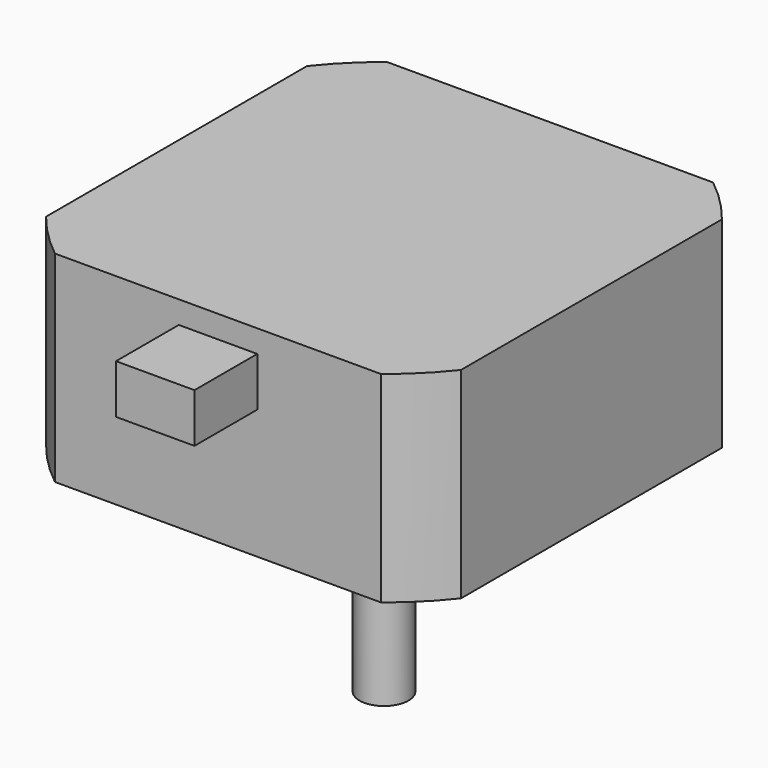
from build123d import *

# Parameters (mm, degrees)
SKETCH013_W             = 5
SKETCH013_H             = 1
POCKET003_DEPTH         = 16.5
SKETCH014_R             = 55
SKETCH014_W             = 42.3
SKETCH014_H             = 42.3
POCKET004_DEPTH         = 0.001
POCKET004_DEPTH_BACK    = 42.501
SKETCH015_R             = 1.75
POCKET005_DEPTH         = 5
SKETCH004_W             = 8
SKETCH004_H             = 8
PAD003_DEPTH            = 5
BODY004_PLACEMENT_ANGLE = 180


with BuildPart() as part:
    # Sketch012 → Revolution003 (revolve)
    with BuildSketch(Plane.XZ):
        Polygon((0, 0), (26.9, 0), (26.9, 20.5), (10.9875, 20.5), (10.9875, 22.5), (2.497, 22.5), (2.497, 42.5), (0, 42.5), align=None)
    revolve(axis=Axis((0, 0, 0), (0, 0, 1)))

    # Sketch013 → Pocket003 (cut)
    with BuildSketch(Plane.XY.offset(42.5)):
        with Locations((0, 2.6)):
            Rectangle(SKETCH013_W, SKETCH013_H)
    extrude(amount=-POCKET003_DEPTH, mode=Mode.SUBTRACT)

    # Sketch014 → Pocket004 (cut, two sides)
    with BuildSketch(Plane.XY) as pocket004_sk:
        Circle(SKETCH014_R)
        Rectangle(SKETCH014_W, SKETCH014_H, mode=Mode.SUBTRACT)
    extrude(amount=-POCKET004_DEPTH, mode=Mode.SUBTRACT)
    extrude(pocket004_sk.sketch, amount=POCKET004_DEPTH_BACK, mode=Mode.SUBTRACT)

    # Sketch015 (on Face10 of Pocket004) → Pocket005 (cut)
    with BuildSketch(Plane(origin=(0, 0, 20.5), x_dir=(-1, 0, 0), z_dir=(0, 0, 1))):
        with Locations((-15.5, 15.5)):
            Circle(SKETCH015_R)
        with Locations((15.5, 15.5)):
            Circle(SKETCH015_R)
        with Locations((15.5, -15.5)):
            Circle(SKETCH015_R)
        with Locations((-15.5, -15.5)):
            Circle(SKETCH015_R)
    extrude(amount=-POCKET005_DEPTH, mode=Mode.SUBTRACT)

    # Sketch004 → Pad003 (join)
    with BuildSketch(Plane.XY.offset(2.3)):
        with Locations((0, -25.15)):
            Rectangle(SKETCH004_W, SKETCH004_H)
    extrude(amount=PAD003_DEPTH)


with BuildPart() as part_1:
    # Body004 placement: moved
    add(part.part.moved(Location((0, -70, 47.5))).rotate(Axis((0, -70, 47.5), (0, 1, 0)), BODY004_PLACEMENT_ANGLE))


solid = part_1.part
